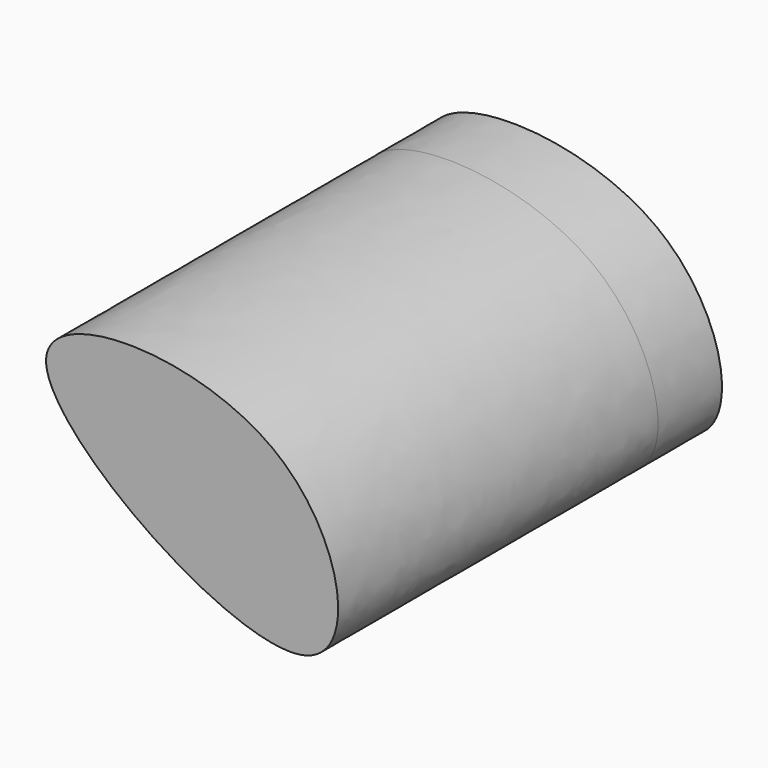
from build123d import *

# Parameters (mm, degrees)
F1_DEPTH      = 127
F1_DEPTH_BACK = 25.4


with BuildPart() as f1:
    # F0 (on Front) → F1 (new body, two sides)
    with BuildSketch(Plane.XZ) as f1_sk:
        with BuildLine():
            add(Edge.make_bspline(
                [(-22.9164510965, 32.2995483875), (-21.7871538422, 49.2550202521), (66.2019782371, 49.3740766296), (82.8792355576, -61.930037907), (-24.2356910698, 12.4922424171), (-22.9164510965, 32.2995483875)],
                knots=[0, 0, 0, 0, 0.3301945652, 0.6142681941, 1, 1, 1, 1], degree=3))
        make_face()
    extrude(amount=F1_DEPTH)
    extrude(f1_sk.sketch, amount=-F1_DEPTH_BACK)


solid = f1.part
